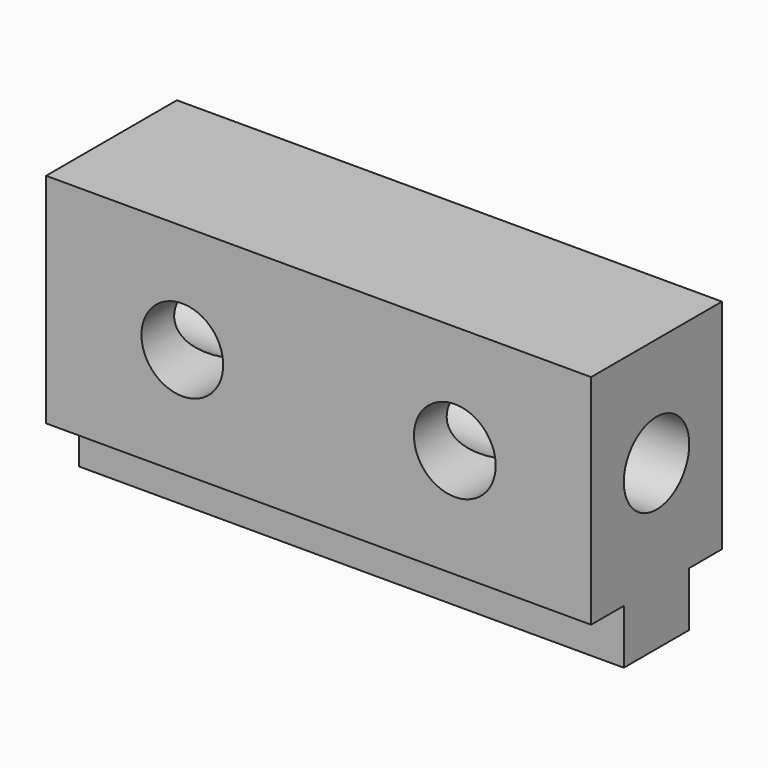
from build123d import *

# Parameters (mm, degrees)
F0_R     = 9.525
F1_DEPTH = 127
F3_D     = 19.05


with BuildPart() as f1:
    # F0 (on Right) → F1 (new body)
    with BuildSketch(Plane.YZ):
        Polygon((19.05, 38.135752), (-19.05, 38.135752), (-19.05, 12.735752), (-19.05, -12.664248), (-9.525, -12.664248), (-9.525, -25.364248), (9.525, -25.364248), (9.525, -12.664248), (19.05, -12.664248), align=None)
        with Locations((0, 12.735752)):
            Circle(F0_R, mode=Mode.SUBTRACT)
    extrude(amount=F1_DEPTH)

    # F3 (through all)
    with Locations(Plane.XZ.offset(19.05)):
        with Locations((95.25, 12.735752), (31.75, 12.735752)):
            Hole(F3_D / 2)


solid = f1.part
